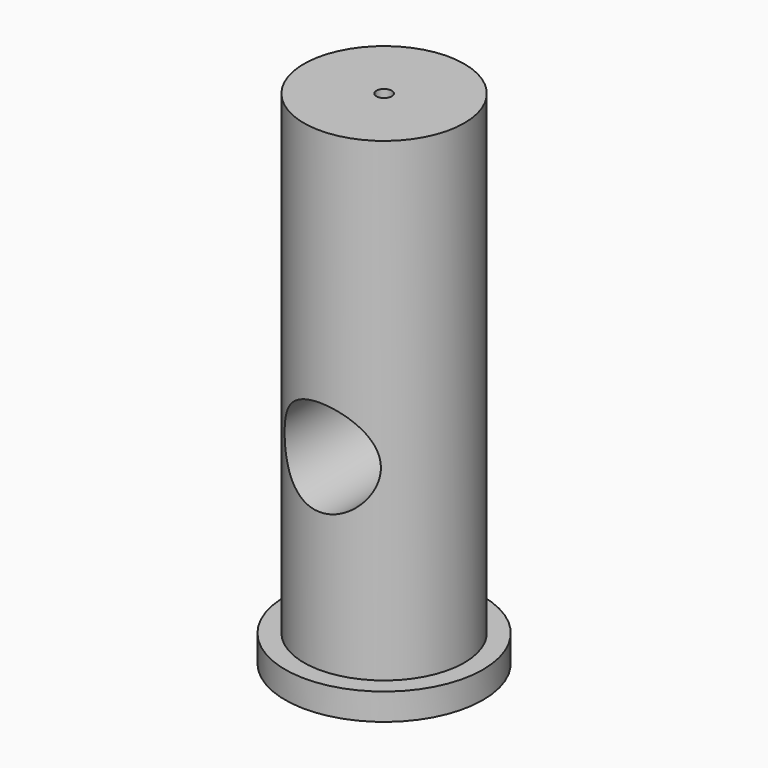
from build123d import *

# Parameters (mm, degrees)
F0_R     = 23.495
F0_R_2   = 19.05
F1_DEPTH = 6.35
F2_DEPTH = 119.14632
F4_D     = 3.6576
F4_DEPTH = 12.7
F4_TIP   = 1.0988539001
F5_R     = 11.43
F6_DEPTH = 25.4
F7_R     = 11.90625
F8_DEPTH = 0.381


with BuildPart() as f1:
    # F0 (on Top) → F1 (new body)
    with BuildSketch(Plane.XY):
        Circle(F0_R)
        Circle(F0_R_2, mode=Mode.SUBTRACT)
    extrude(amount=F1_DEPTH)

    # F0 (on Top) → F2 (join)
    with BuildSketch(Plane.XY):
        Circle(F0_R_2)
    extrude(amount=F2_DEPTH)

    # F4
    with Locations(Plane.XY.offset(119.14632)):
        with Locations((0, 0)):
            Hole(F4_D / 2, depth=F4_DEPTH)
            with Locations((0, 0, -(F4_DEPTH + F4_TIP / 2))):  # 118° drill point
                Cone(0, F4_D / 2, F4_TIP, mode=Mode.SUBTRACT)

    # F5 (on Front) → F6 (cut, symmetric)
    with BuildSketch(Plane.XZ):
        with Locations((0, 50.8)):
            Circle(F5_R)
    extrude(amount=F6_DEPTH, both=True, mode=Mode.SUBTRACT)

    # F7 (on face) → F8 (cut)
    with BuildSketch(Plane(origin=(0, 0, 0), x_dir=(1, 0, 0), z_dir=(0, 0, -1))):
        Circle(F7_R)
    extrude(amount=-F8_DEPTH, mode=Mode.SUBTRACT)


solid = f1.part
